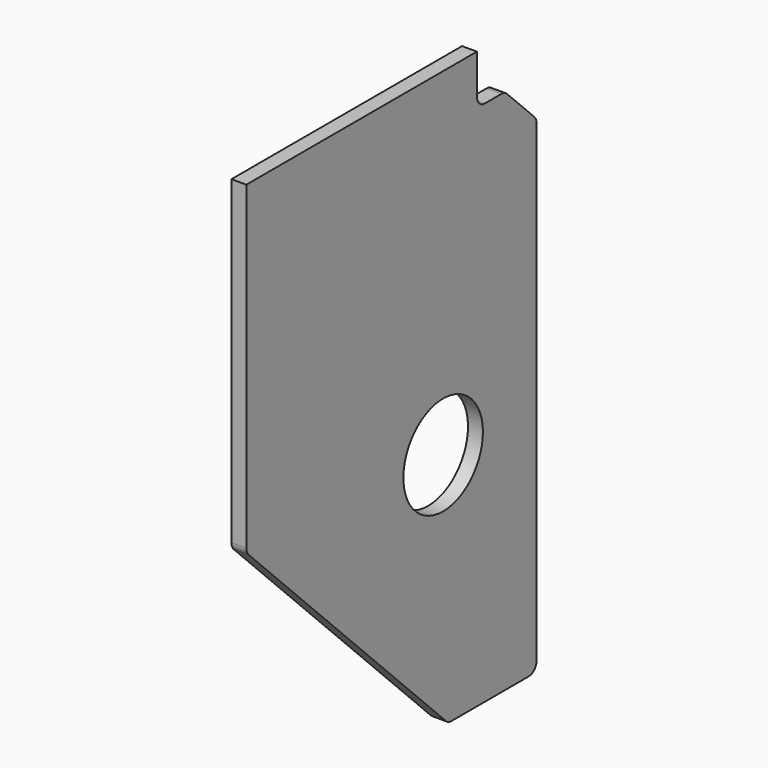
from build123d import *

# Parameters (mm, degrees)
CYLINDER012029001057_R       = 10
CYLINDER012029001057_DEPTH   = 3
BOX015001045_W               = 3
BOX015001045_H               = 12
BOX015001045_DEPTH           = 27
BOX015001045_PLACEMENT_ANGLE = 45
BOX015001046_W               = 3
BOX015001046_H               = 26
BOX015001046_DEPTH           = 76
BOX015001046_PLACEMENT_ANGLE = 45
BOX015001044_W               = 3
BOX015001044_H               = 39
BOX015001044_DEPTH           = 106
BOX015001042_W               = 3
BOX015001042_H               = 58
BOX015001042_DEPTH           = 100
FILLET004002003_R            = 2


with BuildPart() as cylinder012029001047:
    # Cylinder012029001057 → Cylinder012029001057 (new body)
    with BuildSketch(Plane(origin=(-279, 49.5, 32), x_dir=(0, 0, -1), z_dir=(1, 0, 0))):
        Circle(CYLINDER012029001057_R)
    extrude(amount=CYLINDER012029001057_DEPTH)


with BuildPart() as cube041:
    # Box015001045 → Box015001045 (new body)
    with BuildSketch(Plane.XY):
        with Locations((1.5, 6)):
            Rectangle(BOX015001045_W, BOX015001045_H)
    extrude(amount=BOX015001045_DEPTH)


with BuildPart() as cube041_1:
    # Box015001045 placement: moved
    add(cube041.part.moved(Location((-279, 84, 71))).rotate(Axis((-279, 84, 71), (1, 0, 0)), BOX015001045_PLACEMENT_ANGLE))


with BuildPart() as cube042:
    # Box015001046 → Box015001046 (new body)
    with BuildSketch(Plane.XY):
        with Locations((1.5, 13)):
            Rectangle(BOX015001046_W, BOX015001046_H)
    extrude(amount=BOX015001046_DEPTH)


with BuildPart() as cube042_1:
    # Box015001046 placement: moved
    add(cube042.part.moved(Location((-279, 33, -35))).rotate(Axis((-279, 33, -35), (1, 0, 0)), BOX015001046_PLACEMENT_ANGLE))


with BuildPart() as cube040:
    # Box015001044 → Box015001044 (new body)
    with BuildSketch(Plane(origin=(-279, 34, -16), x_dir=(1, 0, 0), z_dir=(0, 0, 1))):
        with Locations((1.5, 19.5)):
            Rectangle(BOX015001044_W, BOX015001044_H)
    extrude(amount=BOX015001044_DEPTH)


with BuildPart() as fillet004002003:
    # Box015001042 → Box015001042 (new body)
    with BuildSketch(Plane(origin=(-279, 0, 0), x_dir=(1, 0, 0), z_dir=(0, 0, 1))):
        with Locations((1.5, 29)):
            Rectangle(BOX015001042_W, BOX015001042_H)
    extrude(amount=BOX015001042_DEPTH)

    # Fusion001019007002: union Cube040
    add(cube040.part)

    # Cut003049: cut Cube042
    add(cube042_1.part, mode=Mode.SUBTRACT)

    # Cut003050: cut Cube041
    add(cube041_1.part, mode=Mode.SUBTRACT)

    # Cut003051: cut Cylinder012029001047
    add(cylinder012029001047.part, mode=Mode.SUBTRACT)

    # Fillet004002003
    fillet004002003_edges = [fillet004002003.edges().sort_by_distance(p)[0] for p in [
        (-277.5, 58, 90),
        (-277.5, 0, 34.769553),
        (-277.5, 50.769553, -16),
        (-277.5, 65, 90),
        (-277.5, 73, -16),
        (-277.5, 73, 82),
    ]]
    fillet(fillet004002003_edges, radius=FILLET004002003_R)


solid = fillet004002003.part
